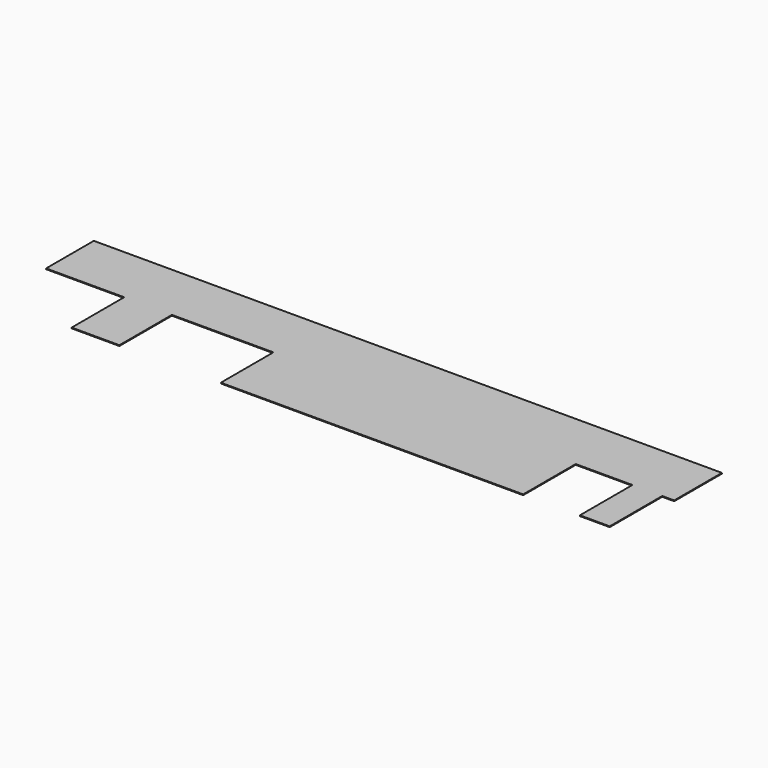
from build123d import *

# Parameters (mm, degrees)
F0_W     = 50.8
F0_H     = 69.85
F0_W_2   = 321.7164
F0_W_3   = 31.75
F1_DEPTH = 0.8128


with BuildPart() as f1:
    # F0 (on Top) → F1 (new body)
    with BuildSketch(Plane.XY):
        Polygon((0, 63.5), (0, 0), (83.0961, 0), (133.8961, 0), (241.8461, 0), (563.5625, 0), (623.8875, 0), (655.6375, 0), (668.3375, 0), (668.3375, 63.5), align=None)
        with Locations((108.4961, -34.925)):
            Rectangle(F0_W, F0_H)
        with Locations((402.7043, -34.925)):
            Rectangle(F0_W_2, F0_H)
        with Locations((639.7625, -34.925)):
            Rectangle(F0_W_3, F0_H)
    extrude(amount=F1_DEPTH)


solid = f1.part
